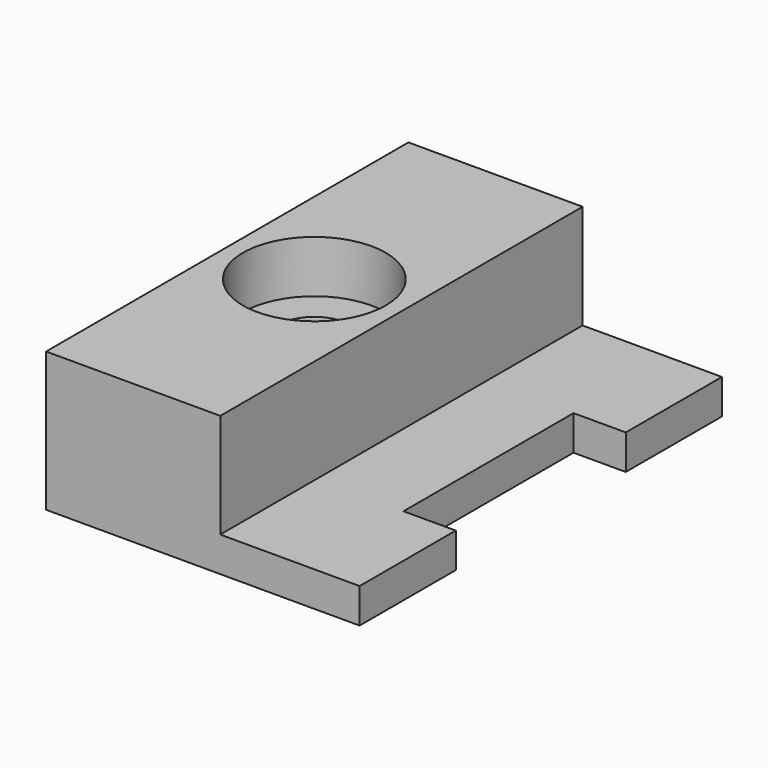
from build123d import *

# Parameters (mm, degrees)
CYLINDER001_R     = 4.1
CYLINDER001_DEPTH = 3
CYLINDER_R        = 2.1
CYLINDER_DEPTH    = 8
BOX004_W          = 3
BOX004_H          = 12.2
BOX004_DEPTH      = 2
BOX001_W          = 10
BOX001_H          = 26
BOX001_DEPTH      = 8
BOX_W             = 18
BOX_H             = 26
BOX_DEPTH         = 2


with BuildPart() as cylinder001:
    # Cylinder001 → Cylinder001 (new body)
    with BuildSketch(Plane(origin=(5, 0, 5), x_dir=(1, 0, 0), z_dir=(0, 0, 1))):
        Circle(CYLINDER001_R)
    extrude(amount=CYLINDER001_DEPTH)


with BuildPart() as fusion:
    # Cylinder → Cylinder (new body)
    with BuildSketch(Plane(origin=(5, 0, 0), x_dir=(1, 0, 0), z_dir=(0, 0, 1))):
        Circle(CYLINDER_R)
    extrude(amount=CYLINDER_DEPTH)

    # Fusion: union Cylinder001
    add(cylinder001.part)


with BuildPart() as cube004:
    # Box004 → Box004 (new body)
    with BuildSketch(Plane(origin=(15, -6.1, 0), x_dir=(1, 0, 0), z_dir=(0, 0, 1))):
        with Locations((1.5, 6.1)):
            Rectangle(BOX004_W, BOX004_H)
    extrude(amount=BOX004_DEPTH)


with BuildPart() as cube001:
    # Box001 → Box001 (new body)
    with BuildSketch(Plane(origin=(0, -13, 0), x_dir=(1, 0, 0), z_dir=(0, 0, 1))):
        with Locations((5, 13)):
            Rectangle(BOX001_W, BOX001_H)
    extrude(amount=BOX001_DEPTH)


with BuildPart() as cut007015:
    # Box → Box (new body)
    with BuildSketch(Plane(origin=(0, -13, 0), x_dir=(1, 0, 0), z_dir=(0, 0, 1))):
        with Locations((9, 13)):
            Rectangle(BOX_W, BOX_H)
    extrude(amount=BOX_DEPTH)

    # Fusion004008: union Cube001
    add(cube001.part)

    # Cut007014: cut Cube004
    add(cube004.part, mode=Mode.SUBTRACT)

    # Cut007015: cut Fusion
    add(fusion.part, mode=Mode.SUBTRACT)


solid = cut007015.part
